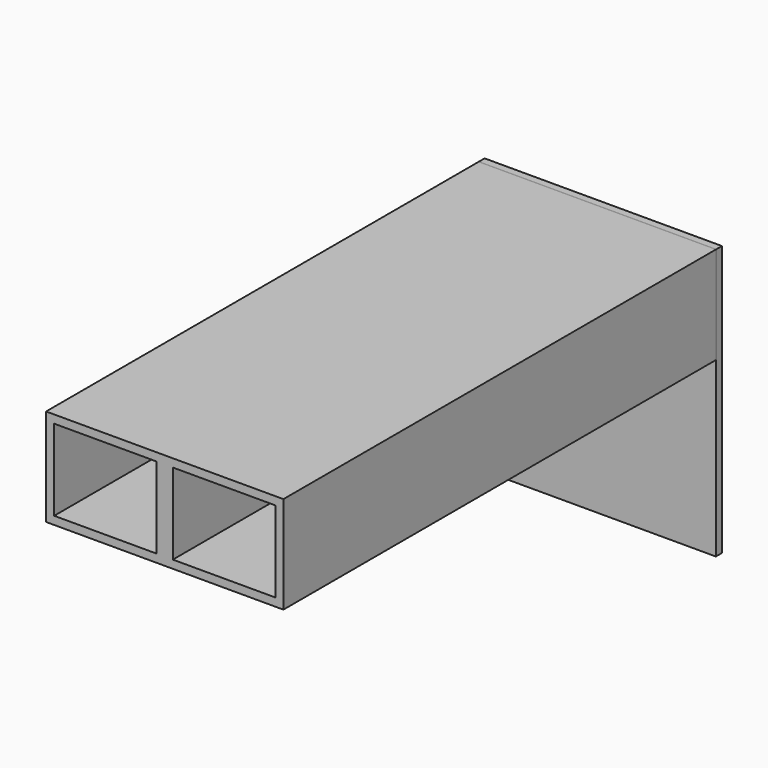
from build123d import *

# Parameters (mm, degrees)
F1_DEPTH = 0.3
F2_W     = 43.9
F2_H     = 50
F3_DEPTH = 1
F4_W     = 43.9
F4_H     = 50
F4_R     = 1.5
F5_DEPTH = 0.1
F6_W     = 18.95
F6_H     = 15
F7_DEPTH = 100


with BuildPart() as f1:
    # F0 (on Front) → F1 (new body)
    with BuildSketch(Plane.XZ):
        with BuildLine():
            Line((-31.05896, -25.242487), (-31.05896, -20.942487))
            ThreePointArc((-31.05896, -20.942487), (-31.205407, -20.588934), (-31.55896, -20.442487))
            Line((-31.55896, -20.442487), (-31.65896, -20.442487))
            Line((-31.65896, -20.442487), (-31.65896, -0.442487))
            ThreePointArc((-31.65896, -0.442487), (-30.90896, 2.356551), (-30.15896, -0.442487))
            Line((-30.15896, -0.442487), (-30.15896, -20.442487))
            Line((-30.15896, -20.442487), (-30.25896, -20.442487))
            ThreePointArc((-30.25896, -20.442487), (-30.612513, -20.588934), (-30.75896, -20.942487))
            Line((-30.75896, -20.942487), (-30.75896, -23.442487))
            Line((-30.75896, -23.442487), (-28.25896, -23.442487))
            ThreePointArc((-28.25896, -23.442487), (-27.905407, -23.296041), (-27.75896, -22.942487))
            Line((-27.75896, -22.942487), (-27.75896, -22.842487))
            Line((-27.75896, -22.842487), (-20.25896, -22.842487))
            ThreePointArc((-20.25896, -22.842487), (-19.551853, -22.549594), (-19.25896, -21.842487))
            Line((-19.25896, -21.842487), (-19.25896, -0.442487))
            ThreePointArc((-19.25896, -0.442487), (-18.50896, 2.356551), (-17.75896, -0.442487))
            Line((-17.75896, -0.442487), (-17.75896, -23.342487))
            ThreePointArc((-17.75896, -23.342487), (-18.051853, -24.049594), (-18.75896, -24.342487))
            Line((-18.75896, -24.342487), (-27.75896, -24.342487))
            Line((-27.75896, -24.342487), (-27.75896, -24.242487))
            ThreePointArc((-27.75896, -24.242487), (-27.905407, -23.888934), (-28.25896, -23.742487))
            Line((-28.25896, -23.742487), (-30.75896, -23.742487))
            Line((-30.75896, -23.742487), (-30.75896, -25.242487))
            ThreePointArc((-30.75896, -25.242487), (-30.612513, -25.596041), (-30.25896, -25.742487))
            Line((-30.25896, -25.742487), (-30.15896, -25.742487))
            Line((-30.15896, -25.742487), (-30.15896, -35.742487))
            Line((-30.15896, -35.742487), (-2.75896, -35.742487))
            Line((-2.75896, -35.742487), (-2.75896, 14.257513))
            Line((-2.75896, 14.257513), (-46.65896, 14.257513))
            Line((-46.65896, 14.257513), (-46.65896, -35.742487))
            Line((-46.65896, -35.742487), (-31.65896, -35.742487))
            Line((-31.65896, -35.742487), (-31.65896, -25.742487))
            Line((-31.65896, -25.742487), (-31.55896, -25.742487))
            ThreePointArc((-31.55896, -25.742487), (-31.205407, -25.596041), (-31.05896, -25.242487))
        make_face()
    extrude(amount=F1_DEPTH)

    # F2 (on face) → F3 (join)
    with BuildSketch(Plane(origin=(0, 0, 0), x_dir=(-1, 0, 0), z_dir=(0, 1, 0))):
        with Locations((24.70896, -10.742487)):
            Rectangle(F2_W, F2_H)
    extrude(amount=F3_DEPTH)


with BuildPart() as f5:
    # F4 (on face) → F5 (new body)
    with BuildSketch(Plane.XZ.offset(0.3)):
        with Locations((-24.70896, -10.742487)):
            Rectangle(F4_W, F4_H)
        with Locations((-30.90896, 0.856551)):
            Circle(F4_R, mode=Mode.SUBTRACT)
        with Locations((-18.50896, 0.856551)):
            Circle(F4_R, mode=Mode.SUBTRACT)
    extrude(amount=F5_DEPTH)


with BuildPart() as f7:
    # F6 (on face) → F7 (new body)
    with BuildSketch(Plane.XZ.offset(0.4)):
        Polygon((-46.65896, -3.742487), (-24.70896, -3.742487), (-2.75896, -3.742487), (-2.75896, 14.257513), (-24.70896, 14.257513), (-46.65896, 14.257513), align=None)
        with Locations((-35.68396, 5.257513)):
            Rectangle(F6_W, F6_H, mode=Mode.SUBTRACT)
        with Locations((-13.73396, 5.257513)):
            Rectangle(F6_W, F6_H, mode=Mode.SUBTRACT)
    extrude(amount=F7_DEPTH)


solid = Compound([f1.part, f5.part, f7.part])
